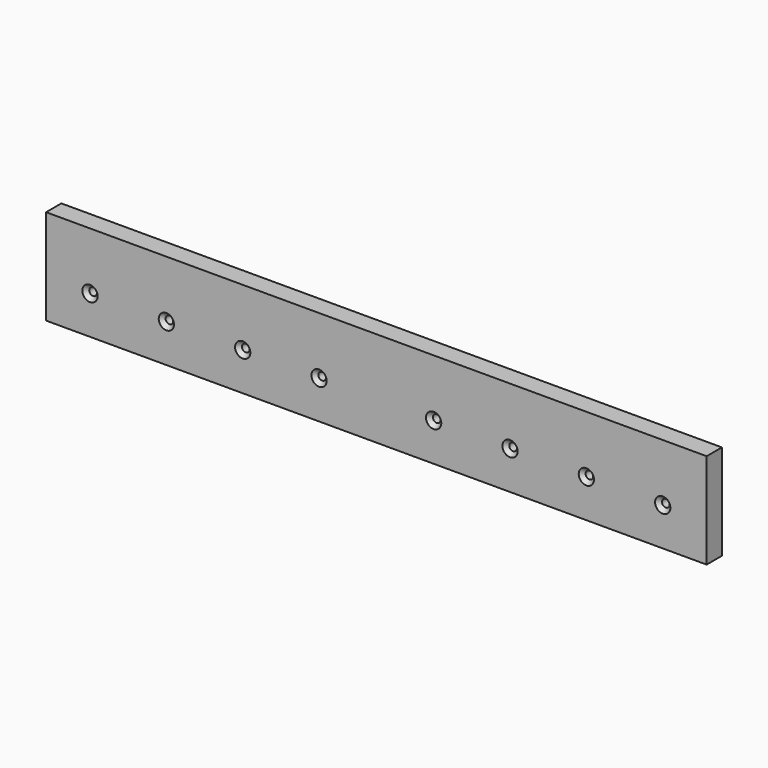
from build123d import *

# Parameters (mm, degrees)
F0_W     = 346
F0_H     = 50
F1_DEPTH = 10
F3_DEPTH = 10.001
F4_SIZE  = 2


with BuildPart() as f1:
    # F0 (on Front) → F1 (new body)
    with BuildSketch(Plane.XZ):
        Rectangle(F0_W, F0_H)
    extrude(amount=F1_DEPTH)

    # F2 (on face) → F3 (cut, through all)
    with BuildSketch(Plane.XZ.offset(10)):
        with BuildLine():
            ThreePointArc((-148, -5), (-150, -3), (-152, -5))
            Line((-152, -5), (-148, -5))
        make_face()
        with BuildLine():
            Line((-148, -5), (-152, -5))
            ThreePointArc((-152, -5), (-150, -7), (-148, -5))
        make_face()
        with BuildLine():
            ThreePointArc((-108, -5), (-110, -3), (-112, -5))
            Line((-112, -5), (-108, -5))
        make_face()
        with BuildLine():
            Line((-108, -5), (-112, -5))
            ThreePointArc((-112, -5), (-110, -7), (-108, -5))
        make_face()
        with BuildLine():
            ThreePointArc((-68, -5), (-70, -3), (-72, -5))
            Line((-72, -5), (-68, -5))
        make_face()
        with BuildLine():
            Line((-68, -5), (-72, -5))
            ThreePointArc((-72, -5), (-70, -7), (-68, -5))
        make_face()
        with BuildLine():
            Line((-32, -5), (-28, -5))
            ThreePointArc((-28, -5), (-30, -3), (-32, -5))
        make_face()
        with BuildLine():
            ThreePointArc((-32, -5), (-30, -7), (-28, -5))
            Line((-28, -5), (-32, -5))
        make_face()
        with BuildLine():
            ThreePointArc((32, -5), (30, -3), (28, -5))
            Line((28, -5), (32, -5))
        make_face()
        with BuildLine():
            Line((32, -5), (28, -5))
            ThreePointArc((28, -5), (30, -7), (32, -5))
        make_face()
        with BuildLine():
            ThreePointArc((72, -5), (70, -3), (68, -5))
            Line((68, -5), (72, -5))
        make_face()
        with BuildLine():
            Line((72, -5), (68, -5))
            ThreePointArc((68, -5), (70, -7), (72, -5))
        make_face()
        with BuildLine():
            Line((108, -5), (112, -5))
            ThreePointArc((112, -5), (110, -3), (108, -5))
        make_face()
        with BuildLine():
            ThreePointArc((108, -5), (110, -7), (112, -5))
            Line((112, -5), (108, -5))
        make_face()
        with BuildLine():
            Line((148, -5), (152, -5))
            ThreePointArc((152, -5), (150, -3), (148, -5))
        make_face()
        with BuildLine():
            ThreePointArc((148, -5), (150, -7), (152, -5))
            Line((152, -5), (148, -5))
        make_face()
    extrude(amount=-F3_DEPTH, mode=Mode.SUBTRACT)

    # F4
    f4_edges = [f1.edges().sort_by_distance(p)[0] for p in [
        (-148, -10, -5),
        (-108, -10, -5),
        (-68, -10, -5),
        (-28, -10, -5),
        (32, -10, -5),
        (72, -10, -5),
        (112, -10, -5),
        (152, -10, -5),
    ]]
    chamfer(f4_edges, length=F4_SIZE)


solid = f1.part
